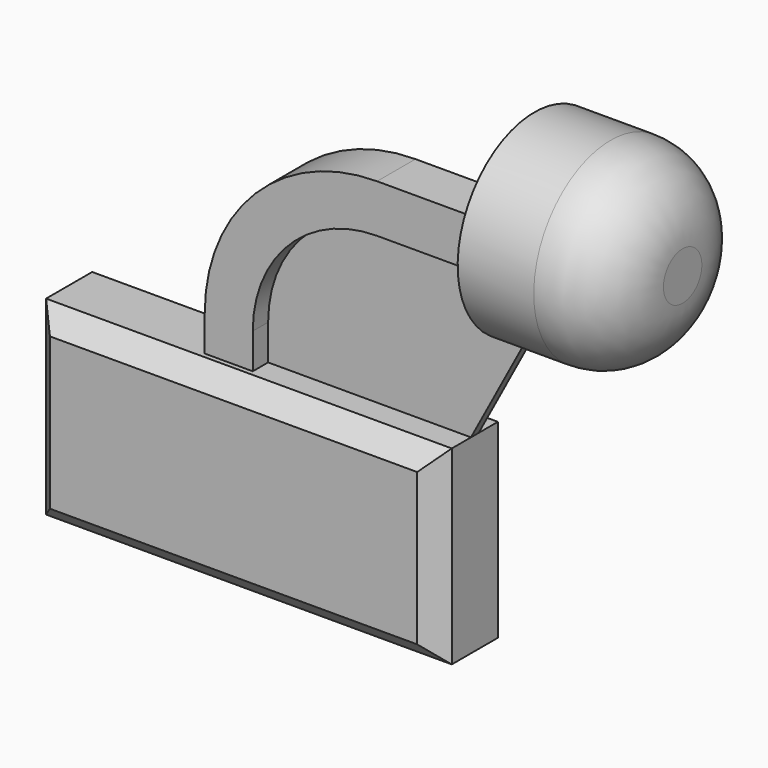
from build123d import *

# Parameters (mm, degrees)
F1_DEPTH = 12.7
F3_DEPTH = 6.35
F4_DEPTH = 1.27
F5_R     = 19.05
F6_SIZE  = 5.08
F7_SIZE  = 5.08


with BuildPart() as f1:
    # F0 (on Front) → F1 (new body, symmetric)
    with BuildSketch(Plane.XZ):
        Polygon((53.6384955049, -25.1384768635), (53.6384955049, 25.1384768635), (0, 25.1384768635), (-12.7, 25.1384768635), (-53.6384955049, 25.1384768635), (-53.6384955049, -25.1384768635), align=None)
    extrude(amount=F1_DEPTH, both=True)

    # F6
    f6_edges = [f1.edges().sort_by_distance(p)[0] for p in [
        (-53.638496, -12.7, 0),
        (0, -12.7, 25.138477),
        (53.638496, -12.7, 0),
        (0, -12.7, -25.138477),
    ]]
    chamfer(f6_edges, length=F6_SIZE)

    # F7
    f7_edges = [f1.edges().sort_by_distance(p)[0] for p in [
        (0, 12.7, 25.138477),
        (53.638496, 12.7, 0),
        (0, 12.7, -25.138477),
        (-53.638496, 12.7, 0),
    ]]
    chamfer(f7_edges, length=F7_SIZE)


with BuildPart() as f2:
    # F0 (on Front) → F2 (revolve)
    with BuildSketch(Plane.XZ):
        Polygon((69.4231241941, 67.3615719795), (69.4231241941, 54.6615719795), (108.5923761129, 54.6615719795), (108.5923761129, 80.0615719795), (89.0077501535, 80.0615719795), (69.4231241941, 80.0615719795), align=None)
    revolve(axis=Axis((89.0077501535, 0, 80.0615719795), (1, 0, 0)))

    # F5
    f5_edges = [f2.edges().sort_by_distance(p)[0] for p in [
        (108.592376, 0, 105.461572),
    ]]
    fillet(f5_edges, radius=F5_R)


with BuildPart() as f3:
    # F0 (on Front) → F3 (new body, symmetric)
    with BuildSketch(Plane.XZ):
        with BuildLine():
            Line((-12.7, 25.1384768635), (0, 25.1384768635))
            Line((0, 25.1384768635), (0, 34.4926992388))
            ThreePointArc((0, 34.4926992388), (9.6270699358, 57.7345020437), (32.8688727407, 67.3615719795))
            Line((32.8688727407, 67.3615719795), (69.4231241941, 67.3615719795))
            Line((69.4231241941, 67.3615719795), (69.4231241941, 80.0615719795))
            Line((69.4231241941, 80.0615719795), (32.8688727407, 80.0615719795))
            ThreePointArc((32.8688727407, 80.0615719795), (0.6468138147, 66.7147581648), (-12.7, 34.4926992388))
            Line((-12.7, 34.4926992388), (-12.7, 25.1384768635))
        make_face()
    extrude(amount=F3_DEPTH, both=True)


with BuildPart() as f4:
    # F0 (on Front) → F4 (new body, symmetric)
    with BuildSketch(Plane.XZ):
        with BuildLine():
            Line((0, 25.1384768635), (53.6384955049, 25.1384768635))
            Line((53.6384955049, 25.1384768635), (69.4231241941, 54.6615719795))
            Line((69.4231241941, 54.6615719795), (69.4231241941, 67.3615719795))
            Line((69.4231241941, 67.3615719795), (32.8688727407, 67.3615719795))
            ThreePointArc((32.8688727407, 67.3615719795), (9.6270699358, 57.7345020437), (0, 34.4926992388))
            Line((0, 34.4926992388), (0, 25.1384768635))
        make_face()
    extrude(amount=F4_DEPTH, both=True)


solid = Compound([f1.part, f2.part, f3.part, f4.part])
